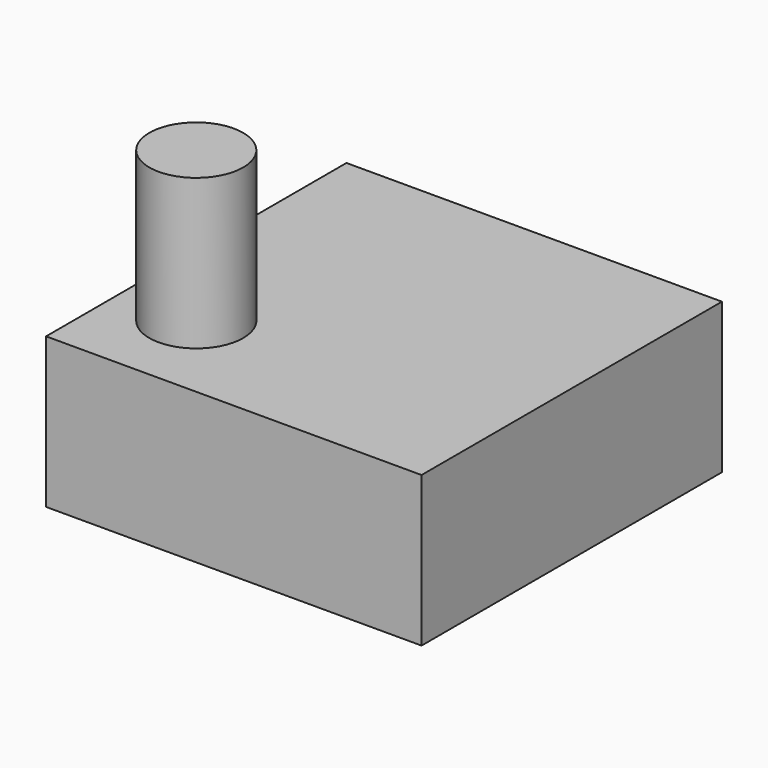
from build123d import *

# Parameters (mm, degrees)
F1_R     = 2.5
F2_DEPTH = 8
F0_W     = 20
F0_H     = 20
F3_DEPTH = 8


with BuildPart() as f2:
    # F1 (on face) → F2 (new body)
    with BuildSketch(Plane.XY):
        with Locations((-6, -5)):
            Circle(F1_R)
    extrude(amount=F2_DEPTH)

    # F0 (on Top) → F3 (join)
    with BuildSketch(Plane.XY):
        Rectangle(F0_W, F0_H)
    extrude(amount=-F3_DEPTH)


solid = f2.part
